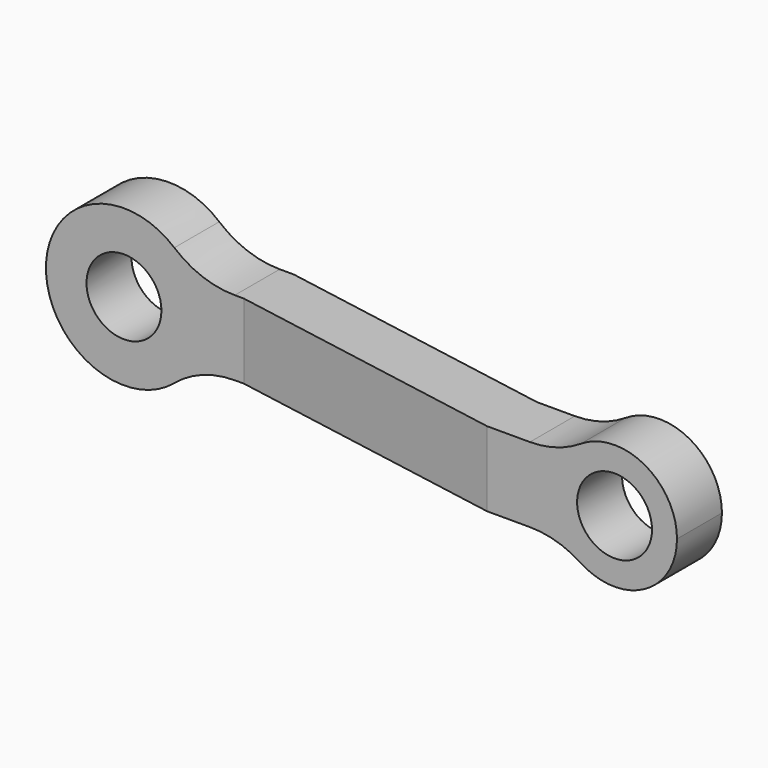
from build123d import *

# Parameters (mm, degrees)
F0_R     = 6
F1_DEPTH = 25
F3_DEPTH = 12.5
F4_R     = 15


with BuildPart() as f1:
    # F0 (on Front) → F1 (new body)
    with BuildSketch(Plane.XZ):
        with BuildLine():
            ThreePointArc((10.965856, -6), (12.110392, -3.096514), (12.5, 0))
            ThreePointArc((12.5, 0), (12.110392, 3.096514), (10.965856, 6))
            ThreePointArc((10.965856, 6), (-12.5, 0), (10.965856, -6))
        make_face()
        Circle(F0_R, mode=Mode.SUBTRACT)
        with BuildLine():
            ThreePointArc((10.965856, 6), (12.110392, 3.096514), (12.5, 0))
            ThreePointArc((12.5, 0), (12.110392, -3.096514), (10.965856, -6))
            Line((10.965856, -6), (77, -6))
            ThreePointArc((77, -6), (75, 0), (77, 6))
            Line((77, 6), (10.965856, 6))
        make_face()
        with BuildLine():
            ThreePointArc((95, 0), (88.162278, 9.486833), (77, 6))
            ThreePointArc((77, 6), (75, 0), (77, -6))
            ThreePointArc((77, -6), (88.162278, -9.486833), (95, 0))
        make_face()
        with Locations((85, 0)):
            Circle(F0_R, mode=Mode.SUBTRACT)
    extrude(amount=F1_DEPTH)

    # F2 (on Top) → F3 (intersect, symmetric)
    with BuildSketch(Plane.XY):
        Polygon((0, 0), (-12.5, 0), (-12.5, -9), (0, -9), (19.212602, -9), (64.582857, -17), (95, -17), (95, -8), (65.370255, -8), (20, 0), align=None)
    extrude(amount=F3_DEPTH, both=True, mode=Mode.INTERSECT)

    # F4
    f4_edges = [f1.edges().sort_by_distance(p)[0] for p in [
        (10.965856, -4.5, -6),
        (10.965856, -4.5, 6),
        (77, -12.5, 6),
        (77, -12.5, -6),
    ]]
    fillet(f4_edges, radius=F4_R)


solid = f1.part
